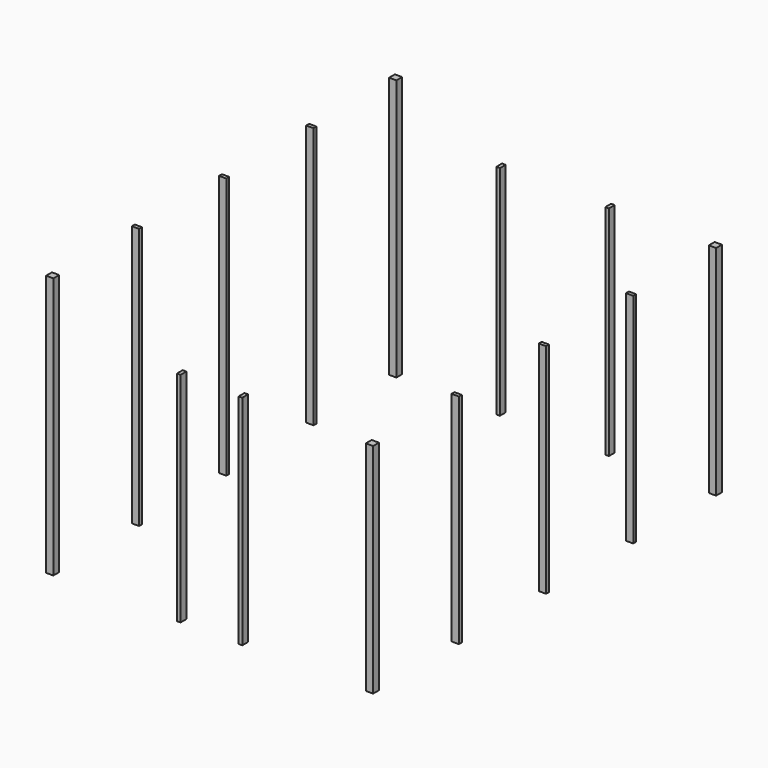
from build123d import *

# Parameters (mm, degrees)
F0_W     = 8.466667
F0_H     = 8.466667
F1_DEPTH = 304.8
F0_W_2   = 4.233333
F0_W_3   = 4.233334
F2_DEPTH = 254


with BuildPart() as f1:
    # F0 (on Top) → F1 (new body)
    with BuildSketch(Plane.XY):
        with Locations((-186.266666, 249.766666)):
            Rectangle(F0_W, F0_H)
        Polygon((-190.5, 129.116667), (-190.5, 127), (-190.5, 124.883333), (-182.033333, 124.883333), (-182.033333, 129.116667), align=None)
        Polygon((-190.5, 2.116667), (-190.5, 0), (-190.5, -2.116667), (-182.033333, -2.116667), (-182.033333, 2.116667), align=None)
        Polygon((-190.5, -124.883333), (-190.5, -127), (-190.5, -129.116667), (-182.033333, -129.116667), (-182.033333, -124.883333), align=None)
        with Locations((-186.266666, -249.766666)):
            Rectangle(F0_W, F0_H)
    extrude(amount=F1_DEPTH)


with BuildPart() as f2:
    # F0 (on Top) → F2 (new body)
    with BuildSketch(Plane.XY):
        with Locations((-35.983334, -249.766666)):
            Rectangle(F0_W_2, F0_H)
        with Locations((35.983334, -249.766666)):
            Rectangle(F0_W_2, F0_H)
        with Locations((186.266666, -249.766666)):
            Rectangle(F0_W, F0_H)
        Polygon((190.5, -127), (190.5, -124.883333), (182.033333, -124.883333), (182.033333, -129.116667), (190.5, -129.116667), align=None)
        Polygon((182.033333, -2.116667), (190.5, -2.116667), (190.5, 0), (190.5, 2.116667), (182.033333, 2.116667), align=None)
        with Locations((-63.5, 249.766666)):
            Rectangle(F0_W_3, F0_H)
        with Locations((63.5, 249.766666)):
            Rectangle(F0_W_3, F0_H)
        with Locations((186.266666, 249.766666)):
            Rectangle(F0_W, F0_H)
        Polygon((190.5, 124.883333), (190.5, 127), (190.5, 129.116667), (182.033333, 129.116667), (182.033333, 124.883333), align=None)
    extrude(amount=F2_DEPTH)


solid = Compound([f1.part, f2.part])
